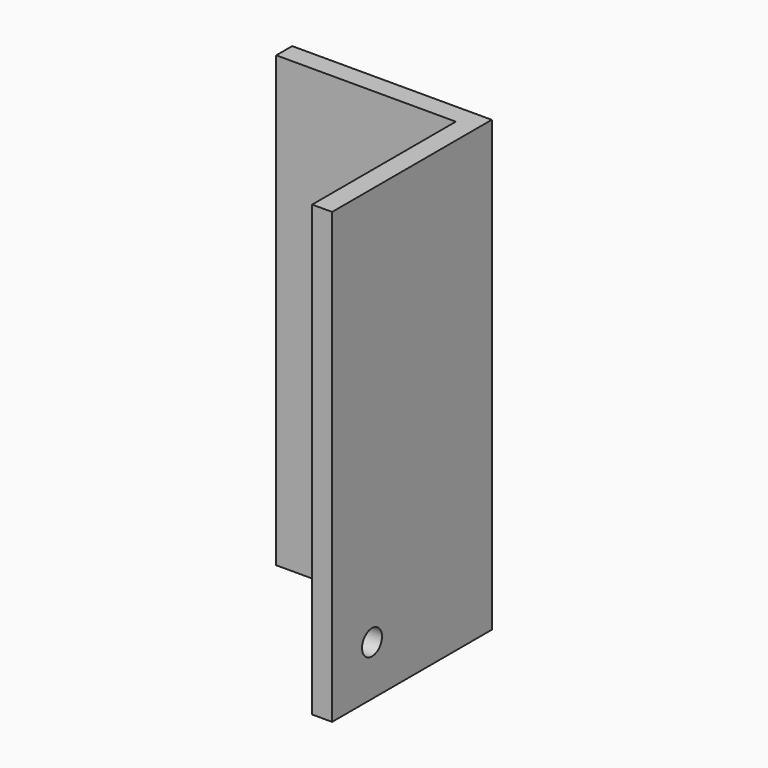
from build123d import *

# Parameters (mm, degrees)
F0_W     = 25.4
F0_H     = 57.15
F1_DEPTH = 25.4
F2_T     = -2.54
F4_D     = 3.175
F6_D     = 3.175


with BuildPart() as f1:
    # F0 (on Front) → F1 (new body)
    with BuildSketch(Plane.XZ):
        with Locations((27.139076, -1.29187)):
            Rectangle(F0_W, F0_H)
    extrude(amount=F1_DEPTH)

    # F2
    f2_openings = [f1.faces().sort_by_distance(p)[0] for p in [
        (27.139076, -12.7, 27.28313),
        (27.139076, -25.4, -1.29187),
        (14.439076, -12.7, -1.29187),
        (27.139076, -12.7, -29.86687),
    ]]
    offset(amount=F2_T, openings=f2_openings)

    # F4 (through all)
    with Locations(Plane.YZ.offset(39.839076)):
        with Locations((-19.05, -23.51687)):
            Hole(F4_D / 2)

    # F6 (through all)
    with Locations(Plane(origin=(0, 0, 0), x_dir=(-1, 0, 0), z_dir=(0, 1, 0))):
        with Locations((-20.789076, -23.51687)):
            Hole(F6_D / 2)


solid = f1.part
